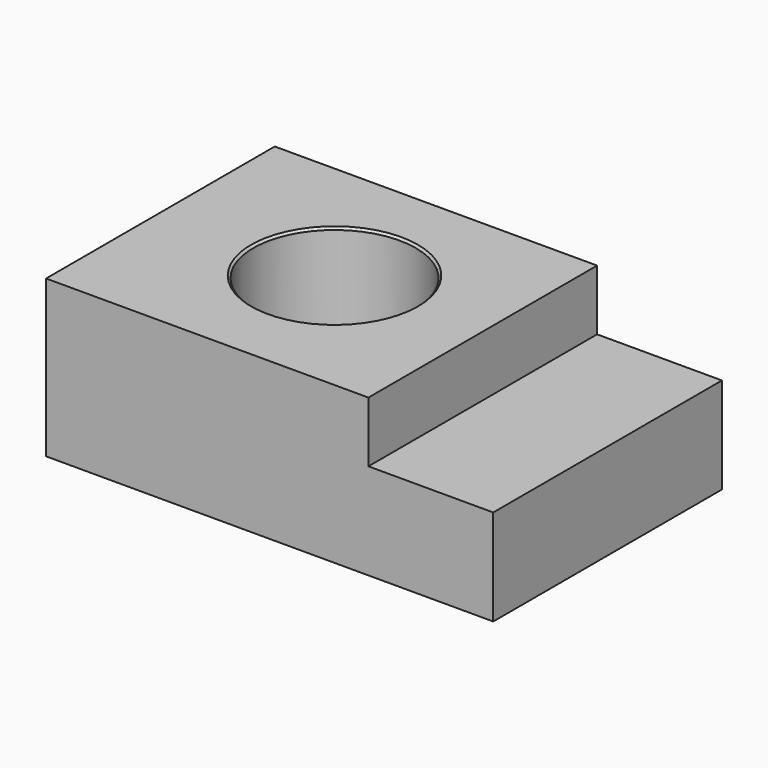
from build123d import *

# Parameters (mm, degrees)
F0_W     = 36.04
F0_H     = 23.04
F1_DEPTH = 7.74
F2_W     = 25.98
F2_H     = 23.04
F3_DEPTH = 4.88
F4_R     = 6.55
F5_DEPTH = 12.621
F6_SIZE2 = 0.175
F6_SIZE  = 0.175


with BuildPart() as f1:
    # F0 (on Top) → F1 (new body)
    with BuildSketch(Plane.XY):
        with Locations((18.02, 11.52)):
            Rectangle(F0_W, F0_H)
    extrude(amount=F1_DEPTH)

    # F2 (on face) → F3 (join)
    with BuildSketch(Plane.XY.offset(7.74)):
        with Locations((12.99, 11.52)):
            Rectangle(F2_W, F2_H)
    extrude(amount=F3_DEPTH)

    # F4 (on face) → F5 (cut, through all)
    with BuildSketch(Plane.XY.offset(12.62)):
        with Locations((13.93, 11.65)):
            Circle(F4_R)
    extrude(amount=-F5_DEPTH, mode=Mode.SUBTRACT)

    # F6
    f6_edges = [f1.edges().sort_by_distance(p)[0] for p in [
        (7.38, 11.65, 12.62),
        (7.38, 11.65, 0),
    ]]
    chamfer(f6_edges, length=F6_SIZE, length2=F6_SIZE2)


solid = f1.part
